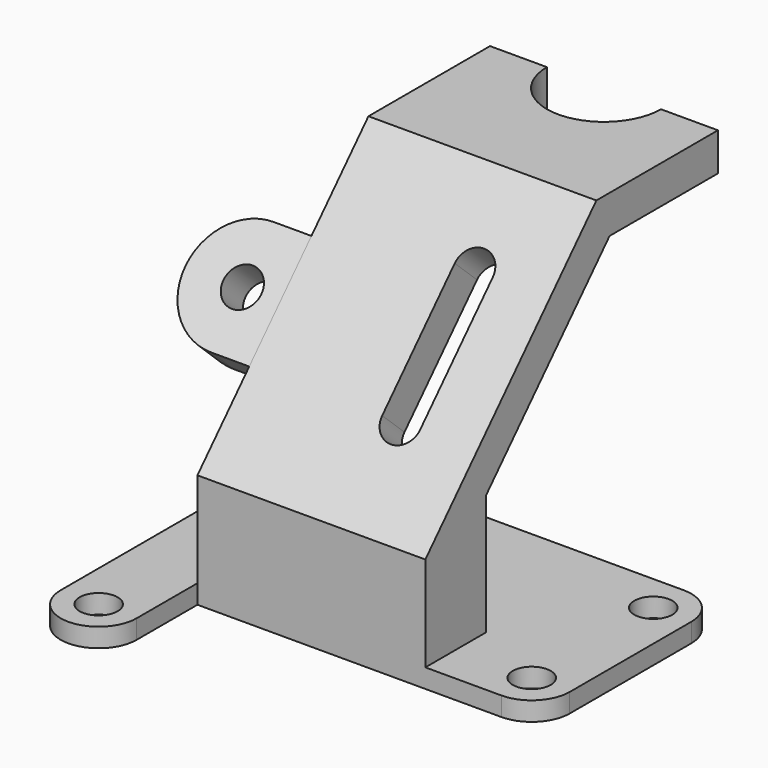
from build123d import *

# Parameters (mm, degrees)
F0_R     = 2
F1_DEPTH = 2
F3_DEPTH = 24
F4_R     = 2
F5_DEPTH = 4
F6_DEPTH = 4
F8_DEPTH = 10


with BuildPart() as f1:
    # F0 (on Top) → F1 (new body)
    with BuildSketch(Plane.XY):
        with BuildLine():
            Line((8, 0), (0, 0))
            Line((0, 0), (0, -8))
            ThreePointArc((0, -8), (4, -12), (8, -8))
            Line((8, -8), (8, 0))
        make_face()
        with Locations((4, -8)):
            Circle(F0_R, mode=Mode.SUBTRACT)
        with BuildLine():
            Line((0, 20), (0, 0))
            Line((0, 0), (8, 0))
            Line((8, 0), (40, 0))
            ThreePointArc((40, 0), (42.8284271247, 1.1715728753), (44, 4))
            Line((44, 4), (44, 20))
            ThreePointArc((44, 20), (42.8284271247, 22.8284271247), (40, 24))
            Line((40, 24), (4, 24))
            ThreePointArc((4, 24), (1.1715728753, 22.8284271247), (0, 20))
        make_face()
        with Locations((40, 4)):
            Circle(F0_R, mode=Mode.SUBTRACT)
        with Locations((4, 20)):
            Circle(F0_R, mode=Mode.SUBTRACT)
        with Locations((40, 20)):
            Circle(F0_R, mode=Mode.SUBTRACT)
    extrude(amount=F1_DEPTH)

    # F2 (on face) → F3 (join)
    with BuildSketch(Plane.YZ.offset(8)):
        Polygon((0, 12), (0, 2), (8, 2), (8, 14.7138329376), (24.2451953819, 32.1346721534), (38.5059458821, 32.1346721534), (38.5059458821, 36.1346721534), (22.5059458821, 36.1346721534), align=None)
    extrude(amount=F3_DEPTH)

    # F4 (on face) → F5 (join)
    with BuildSketch(Plane(origin=(0, -5.9853843016, 5.5814611575), x_dir=(1, 0, 0), z_dir=(0, -0.7313537016, 0.6819983601))):
        with BuildLine():
            Line((8, 18.7762444194), (8, 30.7762444194))
            Line((8, 30.7762444194), (4, 30.7762444194))
            ThreePointArc((4, 30.7762444194), (-2, 24.7762444194), (4, 18.7762444194))
            Line((4, 18.7762444194), (8, 18.7762444194))
        make_face()
        with Locations((4, 24.7762444194)):
            Circle(F4_R, mode=Mode.SUBTRACT)
    extrude(amount=-F5_DEPTH)

    # F4 (on face) → F6 (cut, through all)
    with BuildSketch(Plane(origin=(0, -5.9853843016, 5.5814611575), x_dir=(1, 0, 0), z_dir=(0, -0.7313537016, 0.6819983601))):
        with BuildLine():
            ThreePointArc((26, 32.7762444194), (24, 34.7762444194), (22, 32.7762444194))
            Line((22, 32.7762444194), (22, 18.7762444194))
            ThreePointArc((22, 18.7762444194), (24, 16.7762444194), (26, 18.7762444194))
            Line((26, 18.7762444194), (26, 32.7762444194))
        make_face()
    extrude(amount=-F6_DEPTH, mode=Mode.SUBTRACT)

    # F7 (on face) → F8 (cut)
    with BuildSketch(Plane.XY.offset(36.1346721534)):
        with BuildLine():
            Line((14, 38.5059458821), (26, 38.5059458821))
            ThreePointArc((26, 38.5059458821), (20, 44.5059458821), (14, 38.5059458821))
        make_face()
        with BuildLine():
            ThreePointArc((14, 38.5059458821), (20, 32.5059458821), (26, 38.5059458821))
            Line((26, 38.5059458821), (14, 38.5059458821))
        make_face()
    extrude(amount=-F8_DEPTH, mode=Mode.SUBTRACT)


solid = f1.part
